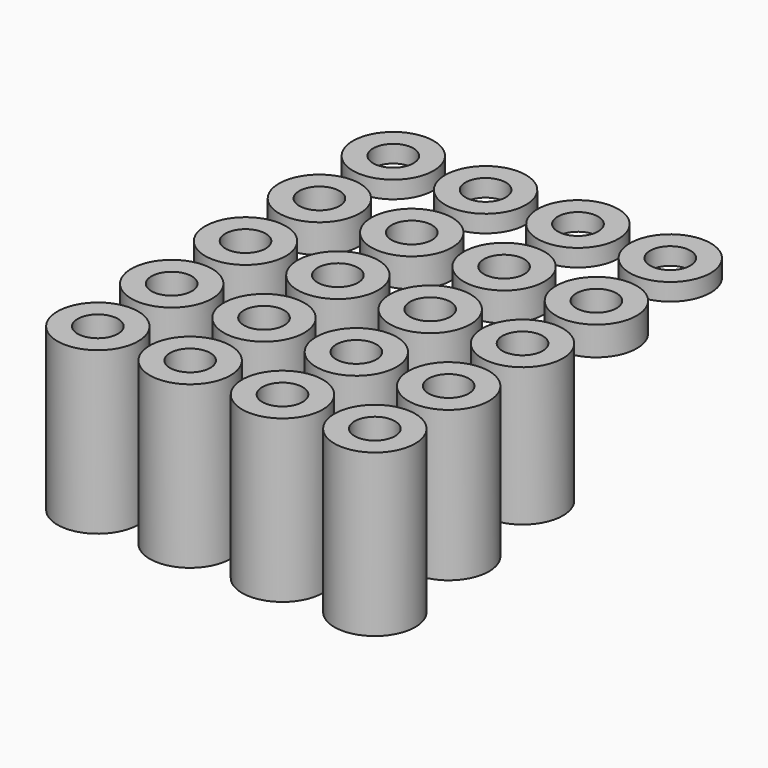
from build123d import *

# Parameters (mm, degrees)
CYLINDER002_R     = 1.75
CYLINDER002_DEPTH = 20
CYLINDER003_R     = 3.5
CYLINDER003_DEPTH = 13
BOX_W             = 10
BOX_H             = 10
BOX_DEPTH         = 5
CYLINDER_R        = 1.75
CYLINDER_DEPTH    = 20
CYLINDER001_R     = 3.5
CYLINDER001_DEPTH = 13
BOX001_W          = 10
BOX001_H          = 10
BOX001_DEPTH      = 5
CYLINDER004_R     = 1.75
CYLINDER004_DEPTH = 20
CYLINDER005_R     = 3.5
CYLINDER005_DEPTH = 13
CYLINDER008_R     = 1.75
CYLINDER008_DEPTH = 20
CYLINDER009_R     = 3.5
CYLINDER009_DEPTH = 12
BOX002_W          = 10
BOX002_H          = 10
BOX002_DEPTH      = 5
CYLINDER006_R     = 1.75
CYLINDER006_DEPTH = 20
CYLINDER007_R     = 3.5
CYLINDER007_DEPTH = 12
BOX003_W          = 10
BOX003_H          = 10
BOX003_DEPTH      = 5
CYLINDER010_R     = 1.75
CYLINDER010_DEPTH = 20
CYLINDER011_R     = 3.5
CYLINDER011_DEPTH = 12
CYLINDER014_R     = 1.75
CYLINDER014_DEPTH = 20
CYLINDER015_R     = 3.5
CYLINDER015_DEPTH = 14
BOX004_W          = 10
BOX004_H          = 10
BOX004_DEPTH      = 5
CYLINDER012_R     = 1.75
CYLINDER012_DEPTH = 20
CYLINDER013_R     = 3.5
CYLINDER013_DEPTH = 14
BOX005_W          = 10
BOX005_H          = 10
BOX005_DEPTH      = 5
CYLINDER016_R     = 1.75
CYLINDER016_DEPTH = 20
CYLINDER017_R     = 3.5
CYLINDER017_DEPTH = 14
CYLINDER018_R     = 1.75
CYLINDER018_DEPTH = 20
CYLINDER019_R     = 3.5
CYLINDER019_DEPTH = 2.5
CYLINDER020_R     = 1.75
CYLINDER020_DEPTH = 20
CYLINDER021_R     = 3.5
CYLINDER021_DEPTH = 1.5
CYLINDER022_R     = 1.75
CYLINDER022_DEPTH = 20
CYLINDER023_R     = 3.5
CYLINDER023_DEPTH = 2.5
CYLINDER024_R     = 1.75
CYLINDER024_DEPTH = 20
CYLINDER025_R     = 3.5
CYLINDER025_DEPTH = 2.5
CYLINDER026_R     = 1.75
CYLINDER026_DEPTH = 20
CYLINDER027_R     = 3.5
CYLINDER027_DEPTH = 2.5
CYLINDER028_R     = 1.75
CYLINDER028_DEPTH = 20
CYLINDER029_R     = 3.5
CYLINDER029_DEPTH = 1.5
CYLINDER030_R     = 1.75
CYLINDER030_DEPTH = 20
CYLINDER031_R     = 3.5
CYLINDER031_DEPTH = 1.5
CYLINDER032_R     = 1.75
CYLINDER032_DEPTH = 20
CYLINDER033_R     = 3.5
CYLINDER033_DEPTH = 1.5
CYLINDER034_R     = 1.75
CYLINDER034_DEPTH = 20
CYLINDER035_R     = 3.5
CYLINDER035_DEPTH = 14
CYLINDER036_R     = 1.75
CYLINDER036_DEPTH = 20
CYLINDER037_R     = 3.5
CYLINDER037_DEPTH = 12


with BuildPart() as cylinder002:
    # Cylinder002 → Cylinder002 (new body)
    with BuildSketch(Plane.XY.offset(-1)):
        Circle(CYLINDER002_R)
    extrude(amount=CYLINDER002_DEPTH)


with BuildPart() as cylinder003:
    # Cylinder003 → Cylinder003 (new body)
    with BuildSketch(Plane.XY):
        Circle(CYLINDER003_R)
    extrude(amount=CYLINDER003_DEPTH)


with BuildPart() as f_13mm:
    # Cut001 base: copy of Cylinder003
    add(cylinder003.part)

    # Cut001: cut Cylinder002
    add(cylinder002.part, mode=Mode.SUBTRACT)


with BuildPart() as f_13mm_1:
    # Cut001 placement: moved
    add(f_13mm.part.moved(Location((16, -8, 0))))


with BuildPart() as cube:
    # Box → Box (new body)
    with BuildSketch(Plane(origin=(-5, 1.5, -1), x_dir=(1, 0, 0), z_dir=(0, 0, 1))):
        with Locations((5, 5)):
            Rectangle(BOX_W, BOX_H)
    extrude(amount=BOX_DEPTH)


with BuildPart() as cylinder:
    # Cylinder → Cylinder (new body)
    with BuildSketch(Plane.XY.offset(-1)):
        Circle(CYLINDER_R)
    extrude(amount=CYLINDER_DEPTH)


with BuildPart() as f_13mm_4mm:
    # Cylinder001 → Cylinder001 (new body)
    with BuildSketch(Plane.XY):
        Circle(CYLINDER001_R)
    extrude(amount=CYLINDER001_DEPTH)

    # Cut: cut Cylinder
    add(cylinder.part, mode=Mode.SUBTRACT)

    # Cut002: cut Cube
    add(cube.part, mode=Mode.SUBTRACT)


with BuildPart() as f_13mm_4mm_1:
    # Cut002 placement: moved
    add(f_13mm_4mm.part.moved(Location((0, -8, 0))))


with BuildPart() as cube001:
    # Box001 → Box001 (new body)
    with BuildSketch(Plane(origin=(-5, 1.5, -1), x_dir=(1, 0, 0), z_dir=(0, 0, 1))):
        with Locations((5, 5)):
            Rectangle(BOX001_W, BOX001_H)
    extrude(amount=BOX001_DEPTH)


with BuildPart() as cylinder004:
    # Cylinder004 → Cylinder004 (new body)
    with BuildSketch(Plane.XY.offset(-1)):
        Circle(CYLINDER004_R)
    extrude(amount=CYLINDER004_DEPTH)


with BuildPart() as f_13mm_4mm001:
    # Cylinder005 → Cylinder005 (new body)
    with BuildSketch(Plane.XY):
        Circle(CYLINDER005_R)
    extrude(amount=CYLINDER005_DEPTH)

    # Cut003: cut Cylinder004
    add(cylinder004.part, mode=Mode.SUBTRACT)

    # Cut004: cut Cube001
    add(cube001.part, mode=Mode.SUBTRACT)


with BuildPart() as f_13mm_4mm001_1:
    # Cut004 placement: moved
    add(f_13mm_4mm001.part.moved(Location((-8, -8, 0))))


with BuildPart() as cylinder008:
    # Cylinder008 → Cylinder008 (new body)
    with BuildSketch(Plane.XY.offset(-1)):
        Circle(CYLINDER008_R)
    extrude(amount=CYLINDER008_DEPTH)


with BuildPart() as f_12mm:
    # Cylinder009 → Cylinder009 (new body)
    with BuildSketch(Plane.XY.offset(1)):
        Circle(CYLINDER009_R)
    extrude(amount=CYLINDER009_DEPTH)

    # Cut006: cut Cylinder008
    add(cylinder008.part, mode=Mode.SUBTRACT)


with BuildPart() as f_12mm_1:
    # Cut006 placement: moved
    add(f_12mm.part.moved(Location((16, 0, 0))))


with BuildPart() as cube002:
    # Box002 → Box002 (new body)
    with BuildSketch(Plane(origin=(-5, 1.5, -1), x_dir=(1, 0, 0), z_dir=(0, 0, 1))):
        with Locations((5, 5)):
            Rectangle(BOX002_W, BOX002_H)
    extrude(amount=BOX002_DEPTH)


with BuildPart() as cylinder006:
    # Cylinder006 → Cylinder006 (new body)
    with BuildSketch(Plane.XY.offset(-1)):
        Circle(CYLINDER006_R)
    extrude(amount=CYLINDER006_DEPTH)


with BuildPart() as f_12mm_4mm:
    # Cylinder007 → Cylinder007 (new body)
    with BuildSketch(Plane.XY):
        Circle(CYLINDER007_R)
    extrude(amount=CYLINDER007_DEPTH)

    # Cut005: cut Cylinder006
    add(cylinder006.part, mode=Mode.SUBTRACT)

    # Cut007: cut Cube002
    add(cube002.part, mode=Mode.SUBTRACT)


with BuildPart() as f_12mm_4mm_1:
    # Cut007 placement: moved
    add(f_12mm_4mm.part.moved(Location((0, 0, 1))))


with BuildPart() as cube003:
    # Box003 → Box003 (new body)
    with BuildSketch(Plane(origin=(-5, 1.5, -1), x_dir=(1, 0, 0), z_dir=(0, 0, 1))):
        with Locations((5, 5)):
            Rectangle(BOX003_W, BOX003_H)
    extrude(amount=BOX003_DEPTH)


with BuildPart() as cylinder010:
    # Cylinder010 → Cylinder010 (new body)
    with BuildSketch(Plane.XY.offset(-1)):
        Circle(CYLINDER010_R)
    extrude(amount=CYLINDER010_DEPTH)


with BuildPart() as f_12mm_4mm001:
    # Cylinder011 → Cylinder011 (new body)
    with BuildSketch(Plane.XY):
        Circle(CYLINDER011_R)
    extrude(amount=CYLINDER011_DEPTH)

    # Cut008: cut Cylinder010
    add(cylinder010.part, mode=Mode.SUBTRACT)

    # Cut009: cut Cube003
    add(cube003.part, mode=Mode.SUBTRACT)


with BuildPart() as f_12mm_4mm001_1:
    # Cut009 placement: moved
    add(f_12mm_4mm001.part.moved(Location((-8, 0, 1))))


with BuildPart() as cylinder014:
    # Cylinder014 → Cylinder014 (new body)
    with BuildSketch(Plane.XY.offset(-1)):
        Circle(CYLINDER014_R)
    extrude(amount=CYLINDER014_DEPTH)


with BuildPart() as f_14mm:
    # Cylinder015 → Cylinder015 (new body)
    with BuildSketch(Plane.XY):
        Circle(CYLINDER015_R)
    extrude(amount=CYLINDER015_DEPTH)

    # Cut011: cut Cylinder014
    add(cylinder014.part, mode=Mode.SUBTRACT)


with BuildPart() as f_14mm_1:
    # Cut011 placement: moved
    add(f_14mm.part.moved(Location((16, -16, -1))))


with BuildPart() as cube004:
    # Box004 → Box004 (new body)
    with BuildSketch(Plane(origin=(-5, 1.5, -1), x_dir=(1, 0, 0), z_dir=(0, 0, 1))):
        with Locations((5, 5)):
            Rectangle(BOX004_W, BOX004_H)
    extrude(amount=BOX004_DEPTH)


with BuildPart() as cylinder012:
    # Cylinder012 → Cylinder012 (new body)
    with BuildSketch(Plane.XY.offset(-1)):
        Circle(CYLINDER012_R)
    extrude(amount=CYLINDER012_DEPTH)


with BuildPart() as f_14mm_4mm:
    # Cylinder013 → Cylinder013 (new body)
    with BuildSketch(Plane.XY):
        Circle(CYLINDER013_R)
    extrude(amount=CYLINDER013_DEPTH)

    # Cut010: cut Cylinder012
    add(cylinder012.part, mode=Mode.SUBTRACT)

    # Cut012: cut Cube004
    add(cube004.part, mode=Mode.SUBTRACT)


with BuildPart() as f_14mm_4mm_1:
    # Cut012 placement: moved
    add(f_14mm_4mm.part.moved(Location((0, -16, -1))))


with BuildPart() as cube005:
    # Box005 → Box005 (new body)
    with BuildSketch(Plane(origin=(-5, 1.5, -1), x_dir=(1, 0, 0), z_dir=(0, 0, 1))):
        with Locations((5, 5)):
            Rectangle(BOX005_W, BOX005_H)
    extrude(amount=BOX005_DEPTH)


with BuildPart() as cylinder016:
    # Cylinder016 → Cylinder016 (new body)
    with BuildSketch(Plane.XY.offset(-1)):
        Circle(CYLINDER016_R)
    extrude(amount=CYLINDER016_DEPTH)


with BuildPart() as f_14mm_4mm001:
    # Cylinder017 → Cylinder017 (new body)
    with BuildSketch(Plane.XY):
        Circle(CYLINDER017_R)
    extrude(amount=CYLINDER017_DEPTH)

    # Cut013: cut Cylinder016
    add(cylinder016.part, mode=Mode.SUBTRACT)

    # Cut014: cut Cube005
    add(cube005.part, mode=Mode.SUBTRACT)


with BuildPart() as f_14mm_4mm001_1:
    # Cut014 placement: moved
    add(f_14mm_4mm001.part.moved(Location((-8, -16, -1))))


with BuildPart() as cylinder018:
    # Cylinder018 → Cylinder018 (new body)
    with BuildSketch(Plane.XY.offset(-1)):
        Circle(CYLINDER018_R)
    extrude(amount=CYLINDER018_DEPTH)


with BuildPart() as f_2_5mm:
    # Cylinder019 → Cylinder019 (new body)
    with BuildSketch(Plane.XY.offset(1)):
        Circle(CYLINDER019_R)
    extrude(amount=CYLINDER019_DEPTH)

    # Cut015: cut Cylinder018
    add(cylinder018.part, mode=Mode.SUBTRACT)


with BuildPart() as f_2_5mm_1:
    # Cut015 placement: moved
    add(f_2_5mm.part.moved(Location((16, 8, 9.5))))


with BuildPart() as cylinder020:
    # Cylinder020 → Cylinder020 (new body)
    with BuildSketch(Plane.XY.offset(-1)):
        Circle(CYLINDER020_R)
    extrude(amount=CYLINDER020_DEPTH)


with BuildPart() as f_1_5mm:
    # Cylinder021 → Cylinder021 (new body)
    with BuildSketch(Plane.XY.offset(1)):
        Circle(CYLINDER021_R)
    extrude(amount=CYLINDER021_DEPTH)

    # Cut016: cut Cylinder020
    add(cylinder020.part, mode=Mode.SUBTRACT)


with BuildPart() as f_1_5mm_1:
    # Cut016 placement: moved
    add(f_1_5mm.part.moved(Location((16, 16, 10.5))))


with BuildPart() as cylinder022:
    # Cylinder022 → Cylinder022 (new body)
    with BuildSketch(Plane.XY.offset(-1)):
        Circle(CYLINDER022_R)
    extrude(amount=CYLINDER022_DEPTH)


with BuildPart() as f_2_5mm001:
    # Cylinder023 → Cylinder023 (new body)
    with BuildSketch(Plane.XY.offset(1)):
        Circle(CYLINDER023_R)
    extrude(amount=CYLINDER023_DEPTH)

    # Cut017: cut Cylinder022
    add(cylinder022.part, mode=Mode.SUBTRACT)


with BuildPart() as f_2_5mm001_1:
    # Cut017 placement: moved
    add(f_2_5mm001.part.moved(Location((8, 8, 9.5))))


with BuildPart() as cylinder024:
    # Cylinder024 → Cylinder024 (new body)
    with BuildSketch(Plane.XY.offset(-1)):
        Circle(CYLINDER024_R)
    extrude(amount=CYLINDER024_DEPTH)


with BuildPart() as f_2_5mm002:
    # Cylinder025 → Cylinder025 (new body)
    with BuildSketch(Plane.XY.offset(1)):
        Circle(CYLINDER025_R)
    extrude(amount=CYLINDER025_DEPTH)

    # Cut018: cut Cylinder024
    add(cylinder024.part, mode=Mode.SUBTRACT)


with BuildPart() as f_2_5mm002_1:
    # Cut018 placement: moved
    add(f_2_5mm002.part.moved(Location((0, 8, 9.5))))


with BuildPart() as cylinder026:
    # Cylinder026 → Cylinder026 (new body)
    with BuildSketch(Plane.XY.offset(-1)):
        Circle(CYLINDER026_R)
    extrude(amount=CYLINDER026_DEPTH)


with BuildPart() as f_2_5mm003:
    # Cylinder027 → Cylinder027 (new body)
    with BuildSketch(Plane.XY.offset(1)):
        Circle(CYLINDER027_R)
    extrude(amount=CYLINDER027_DEPTH)

    # Cut019: cut Cylinder026
    add(cylinder026.part, mode=Mode.SUBTRACT)


with BuildPart() as f_2_5mm003_1:
    # Cut019 placement: moved
    add(f_2_5mm003.part.moved(Location((-8, 8, 9.5))))


with BuildPart() as cylinder028:
    # Cylinder028 → Cylinder028 (new body)
    with BuildSketch(Plane.XY.offset(-1)):
        Circle(CYLINDER028_R)
    extrude(amount=CYLINDER028_DEPTH)


with BuildPart() as f_1_5mm001:
    # Cylinder029 → Cylinder029 (new body)
    with BuildSketch(Plane.XY.offset(1)):
        Circle(CYLINDER029_R)
    extrude(amount=CYLINDER029_DEPTH)

    # Cut020: cut Cylinder028
    add(cylinder028.part, mode=Mode.SUBTRACT)


with BuildPart() as f_1_5mm001_1:
    # Cut020 placement: moved
    add(f_1_5mm001.part.moved(Location((8, 16, 10.5))))


with BuildPart() as cylinder030:
    # Cylinder030 → Cylinder030 (new body)
    with BuildSketch(Plane.XY.offset(-1)):
        Circle(CYLINDER030_R)
    extrude(amount=CYLINDER030_DEPTH)


with BuildPart() as f_1_5mm002:
    # Cylinder031 → Cylinder031 (new body)
    with BuildSketch(Plane.XY.offset(1)):
        Circle(CYLINDER031_R)
    extrude(amount=CYLINDER031_DEPTH)

    # Cut021: cut Cylinder030
    add(cylinder030.part, mode=Mode.SUBTRACT)


with BuildPart() as f_1_5mm002_1:
    # Cut021 placement: moved
    add(f_1_5mm002.part.moved(Location((0, 16, 10.5))))


with BuildPart() as cylinder032:
    # Cylinder032 → Cylinder032 (new body)
    with BuildSketch(Plane.XY.offset(-1)):
        Circle(CYLINDER032_R)
    extrude(amount=CYLINDER032_DEPTH)


with BuildPart() as f_1_5mm003:
    # Cylinder033 → Cylinder033 (new body)
    with BuildSketch(Plane.XY.offset(1)):
        Circle(CYLINDER033_R)
    extrude(amount=CYLINDER033_DEPTH)

    # Cut022: cut Cylinder032
    add(cylinder032.part, mode=Mode.SUBTRACT)


with BuildPart() as f_1_5mm003_1:
    # Cut022 placement: moved
    add(f_1_5mm003.part.moved(Location((-8, 16, 10.5))))


with BuildPart() as cylinder034:
    # Cylinder034 → Cylinder034 (new body)
    with BuildSketch(Plane.XY.offset(-1)):
        Circle(CYLINDER034_R)
    extrude(amount=CYLINDER034_DEPTH)


with BuildPart() as f_14mm001:
    # Cylinder035 → Cylinder035 (new body)
    with BuildSketch(Plane.XY):
        Circle(CYLINDER035_R)
    extrude(amount=CYLINDER035_DEPTH)

    # Cut023: cut Cylinder034
    add(cylinder034.part, mode=Mode.SUBTRACT)


with BuildPart() as f_14mm001_1:
    # Cut023 placement: moved
    add(f_14mm001.part.moved(Location((8, -16, -1))))


with BuildPart() as cylinder036:
    # Cylinder036 → Cylinder036 (new body)
    with BuildSketch(Plane.XY.offset(-1)):
        Circle(CYLINDER036_R)
    extrude(amount=CYLINDER036_DEPTH)


with BuildPart() as f_12mm001:
    # Cylinder037 → Cylinder037 (new body)
    with BuildSketch(Plane.XY.offset(1)):
        Circle(CYLINDER037_R)
    extrude(amount=CYLINDER037_DEPTH)

    # Cut024: cut Cylinder036
    add(cylinder036.part, mode=Mode.SUBTRACT)


with BuildPart() as f_12mm001_1:
    # Cut024 placement: moved
    add(f_12mm001.part.moved(Location((8, 0, 0))))


with BuildPart() as f_13mm001:
    # Cut025 base: copy of Cylinder003
    add(cylinder003.part)

    # Cut025: cut Cylinder002
    add(cylinder002.part, mode=Mode.SUBTRACT)


with BuildPart() as f_13mm001_1:
    # Cut025 placement: moved
    add(f_13mm001.part.moved(Location((8, -8, 0))))


solid = Compound([f_13mm_1.part, f_13mm_4mm_1.part, f_13mm_4mm001_1.part, f_12mm_1.part, f_12mm_4mm_1.part, f_12mm_4mm001_1.part, f_14mm_1.part, f_14mm_4mm_1.part, f_14mm_4mm001_1.part, f_2_5mm_1.part, f_1_5mm_1.part, f_2_5mm001_1.part, f_2_5mm002_1.part, f_2_5mm003_1.part, f_1_5mm001_1.part, f_1_5mm002_1.part, f_1_5mm003_1.part, f_14mm001_1.part, f_12mm001_1.part, f_13mm001_1.part])
